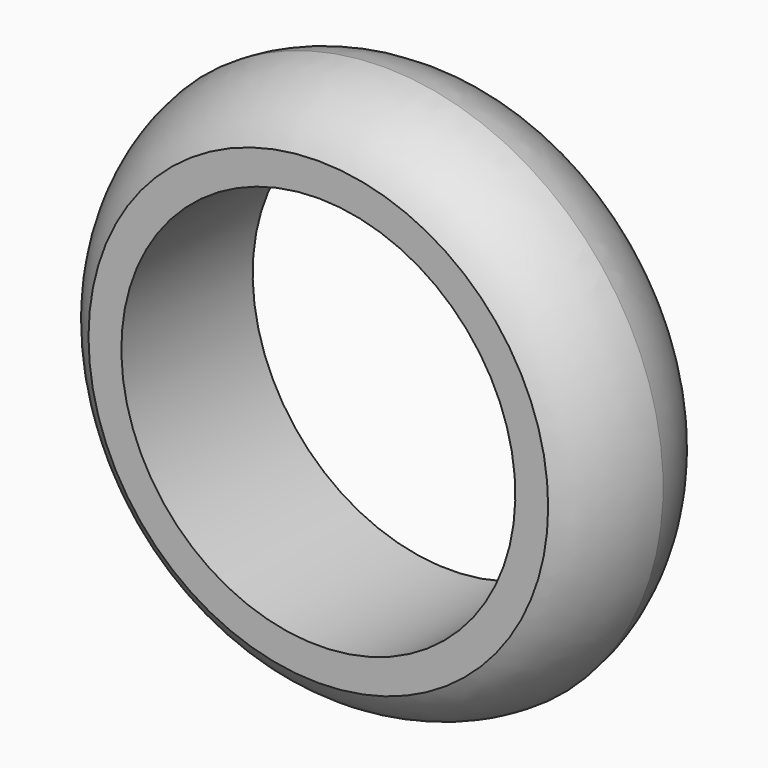
from build123d import *


with BuildPart() as f2:
    # F1 (on Right) → F2 (revolve)
    with BuildSketch(Plane.YZ):
        with BuildLine():
            Line((-2.5, 6), (0, 6))
            Line((0, 6), (2.5, 6))
            Line((2.5, 6), (2.5, 7))
            add(Edge.make_bspline(
                [(2.5, 7), (2.3383054088, 7.2713902237), (1.9169431051, 7.830993888), (0.7233067445, 8.4210298003), (0, 8.5)],
                knots=[0, 0, 0, 0, 0.4100867003, 1, 1, 1, 1], degree=3))
            add(Edge.make_bspline(
                [(-2.5, 7), (-2.3383054088, 7.2713902237), (-1.9169431051, 7.830993888), (-0.7233067445, 8.4210298003), (0, 8.5)],
                knots=[0, 0, 0, 0, 0.4100867003, 1, 1, 1, 1], degree=3))
            Line((-2.5, 7), (-2.5, 6))
        make_face()
    revolve(axis=Axis((0, 0, 0), (0, -1, 0)))


solid = f2.part
